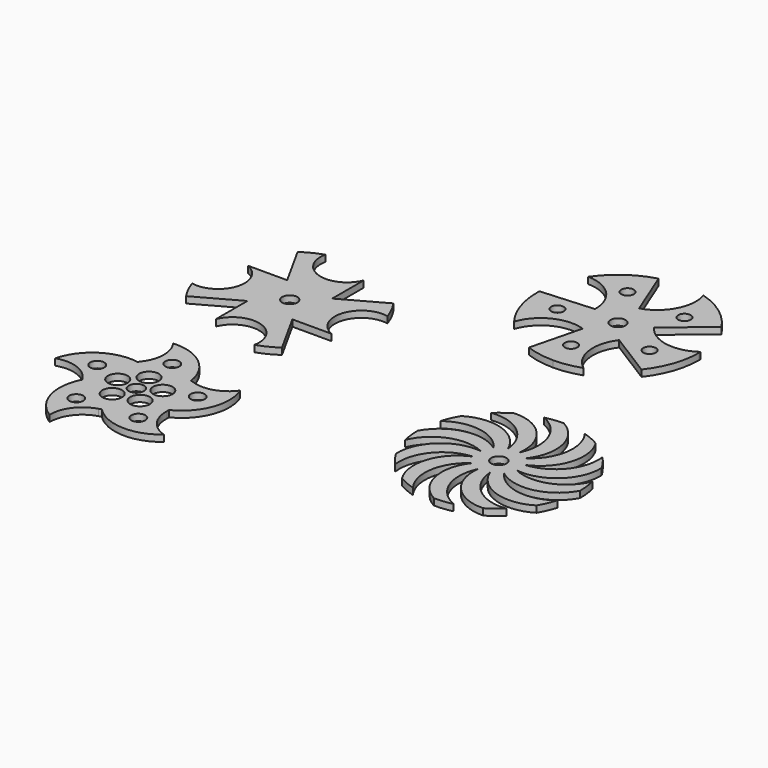
from build123d import *

# Parameters (mm, degrees)
F0_R     = 3.225868
F0_R_2   = 4.525865
F0_R_3   = 3.5
F1_DEPTH = 3
F2_R     = 3.5
F3_DEPTH = 3
F4_R     = 3.5
F5_DEPTH = 3
F6_R     = 2.906494
F6_R_2   = 3.5
F7_DEPTH = 3


with BuildPart() as f1:
    # F0 (on Top) → F1 (new body)
    with BuildSketch(Plane.XY):
        with BuildLine():
            ThreePointArc((-19.438324, -6.853237), (-21.163785, -22.798525), (-11.588137, -35.664619))
            ThreePointArc((-11.588137, -35.664619), (-8.591812, -26.48418), (-0.645364, -20.996705))
            ThreePointArc((-0.645364, -20.996705), (-0.062462, -20.81457), (0.511043, -20.604712))
            ThreePointArc((0.511043, -20.604712), (15.142716, -27.173088), (30.338137, -22.041947))
            ThreePointArc((30.338137, -22.041947), (22.532937, -16.35536), (19.769625, -7.102116))
            ThreePointArc((19.769625, -7.102116), (19.776531, -6.49146), (19.754166, -5.881175))
            ThreePointArc((19.754166, -5.881175), (30.522499, 6.004633), (30.338137, 22.041947))
            ThreePointArc((30.338137, 22.041947), (22.517932, 16.376012), (12.863664, 16.607356))
            ThreePointArc((12.863664, 16.607356), (12.28503, 16.802627), (11.697703, 16.969946))
            ThreePointArc((11.697703, 16.969946), (3.721225, 30.884155), (-11.588137, 35.664619))
            ThreePointArc((-11.588137, 35.664619), (-8.616089, 26.476292), (-11.819443, 17.366026))
            ThreePointArc((-11.819443, 17.366026), (-12.183965, 16.876055), (-12.524588, 16.369179))
            ThreePointArc((-12.524588, 16.369179), (-28.222655, 13.082824), (-37.5, 0))
            ThreePointArc((-37.5, 0), (-27.842968, -0.012763), (-20.168482, -5.874561))
            ThreePointArc((-20.168482, -5.874561), (-19.815134, -6.372651), (-19.438324, -6.853237))
        make_face()
        with Locations((-12.062608, -19.630695)):
            Circle(F0_R, mode=Mode.SUBTRACT)
        with Locations((-4.15265, -8.748238)):
            Circle(F0_R_2, mode=Mode.SUBTRACT)
        with Locations((14.942349, -17.53844)):
            Circle(F0_R, mode=Mode.SUBTRACT)
        with Locations((7.036829, -6.652759)):
            Circle(F0_R_2, mode=Mode.SUBTRACT)
        with Locations((-22.397451, 5.406003)):
            Circle(F0_R, mode=Mode.SUBTRACT)
        with Locations((-9.603308, 1.246051)):
            Circle(F0_R_2, mode=Mode.SUBTRACT)
        with Locations((-1.782521, 9.51834)):
            Circle(F0_R_2, mode=Mode.SUBTRACT)
        with Locations((-1.779778, 22.971789)):
            Circle(F0_R, mode=Mode.SUBTRACT)
        Circle(F0_R_3, mode=Mode.SUBTRACT)
        with Locations((8.50165, 4.636607)):
            Circle(F0_R_2, mode=Mode.SUBTRACT)
        with Locations((21.297488, 8.791343)):
            Circle(F0_R, mode=Mode.SUBTRACT)
    extrude(amount=F1_DEPTH)


with BuildPart() as f3:
    # F2 (on Top) → F3 (new body)
    with BuildSketch(Plane.XY):
        with BuildLine():
            ThreePointArc((35.522153, 100.598265), (33.554927, 105.323169), (30.962662, 109.736201))
            Line((30.962662, 109.736201), (11.360966, 98.87616))
            Line((11.360966, 98.87616), (11.360966, 117.03367))
            ThreePointArc((11.360966, 117.03367), (-3.549716, 109.914539), (-12.017762, 124.102656))
            ThreePointArc((-12.017762, 124.102656), (-16.742666, 122.13543), (-21.155699, 119.543164))
            Line((-21.155699, 119.543164), (-10.295657, 99.941468))
            Line((-10.295657, 99.941468), (-28.453168, 99.941468))
            ThreePointArc((-28.453168, 99.941468), (-21.334036, 85.030786), (-35.522153, 76.56274))
            ThreePointArc((-35.522153, 76.56274), (-33.554927, 71.837836), (-30.962662, 67.424804))
            Line((-30.962662, 67.424804), (-11.360966, 78.284845))
            Line((-11.360966, 78.284845), (-11.360966, 60.127335))
            ThreePointArc((-11.360966, 60.127335), (3.549716, 67.246466), (12.017762, 53.058349))
            ThreePointArc((12.017762, 53.058349), (16.742666, 55.025575), (21.155699, 57.617841))
            Line((21.155699, 57.617841), (10.295657, 77.219537))
            Line((10.295657, 77.219537), (28.453168, 77.219537))
            ThreePointArc((28.453168, 77.219537), (21.334036, 92.130219), (35.522153, 100.598265))
        make_face()
        with Locations((0, 88.580502)):
            Circle(F2_R, mode=Mode.SUBTRACT)
    extrude(amount=F3_DEPTH)


with BuildPart() as f5:
    # F4 (on Top) → F5 (new body)
    with BuildSketch(Plane.XY):
        with BuildLine():
            ThreePointArc((130.977916, 29.964317), (127.290884, 13.494142), (137.428389, 0))
            ThreePointArc((137.428389, 0), (141.632456, 0.236401), (145.783519, 0.942623))
            ThreePointArc((145.783519, 0.942623), (134.977833, 12.17518), (135.609957, 27.748671))
            ThreePointArc((135.609957, 27.748671), (140.651981, 11.641565), (156.178389, 5.024047))
            ThreePointArc((156.178389, 5.024047), (159.701018, 7.33081), (162.942832, 10.017948))
            ThreePointArc((162.942832, 10.017948), (147.968555, 14.342785), (140.729245, 28.145885))
            ThreePointArc((140.729245, 28.145885), (153.149319, 16.717734), (169.904342, 18.75))
            ThreePointArc((169.904342, 18.75), (171.801646, 22.509029), (173.265571, 26.457066))
            ThreePointArc((173.265571, 26.457066), (158.135048, 22.715346), (144.964072, 31.049527))
            ThreePointArc((144.964072, 31.049527), (161.434247, 27.362495), (174.928389, 37.5))
            ThreePointArc((174.928389, 37.5), (174.691988, 41.704067), (173.985766, 45.855129))
            ThreePointArc((173.985766, 45.855129), (162.753209, 35.049444), (147.179718, 35.681568))
            ThreePointArc((147.179718, 35.681568), (163.286824, 40.723592), (169.904342, 56.25))
            ThreePointArc((169.904342, 56.25), (167.597579, 59.772629), (164.910442, 63.014443))
            ThreePointArc((164.910442, 63.014443), (160.585604, 48.040166), (146.782504, 40.800856))
            ThreePointArc((146.782504, 40.800856), (158.210655, 53.22093), (156.178389, 69.975953))
            ThreePointArc((156.178389, 69.975953), (152.41936, 71.873257), (148.471323, 73.337182))
            ThreePointArc((148.471323, 73.337182), (152.213043, 58.206659), (143.878862, 45.035683))
            ThreePointArc((143.878862, 45.035683), (147.565894, 61.505858), (137.428389, 75))
            ThreePointArc((137.428389, 75), (133.224322, 74.763599), (129.07326, 74.057377))
            ThreePointArc((129.07326, 74.057377), (139.878945, 62.82482), (139.246821, 47.251329))
            ThreePointArc((139.246821, 47.251329), (134.204797, 63.358435), (118.678389, 69.975953))
            ThreePointArc((118.678389, 69.975953), (115.155761, 67.66919), (111.913946, 64.982052))
            ThreePointArc((111.913946, 64.982052), (126.888223, 60.657215), (134.127533, 46.854115))
            ThreePointArc((134.127533, 46.854115), (121.707459, 58.282266), (104.952437, 56.25))
            ThreePointArc((104.952437, 56.25), (103.055132, 52.490971), (101.591207, 48.542934))
            ThreePointArc((101.591207, 48.542934), (116.72173, 52.284654), (129.892707, 43.950473))
            ThreePointArc((129.892707, 43.950473), (113.422531, 47.637505), (99.928389, 37.5))
            ThreePointArc((99.928389, 37.5), (100.16479, 33.295933), (100.871012, 29.144871))
            ThreePointArc((100.871012, 29.144871), (112.103569, 39.950556), (127.67706, 39.318432))
            ThreePointArc((127.67706, 39.318432), (111.569954, 34.276408), (104.952437, 18.75))
            ThreePointArc((104.952437, 18.75), (107.259199, 15.227371), (109.946337, 11.985557))
            ThreePointArc((109.946337, 11.985557), (114.271174, 26.959834), (128.074274, 34.199144))
            ThreePointArc((128.074274, 34.199144), (116.646123, 21.77907), (118.678389, 5.024047))
            ThreePointArc((118.678389, 5.024047), (122.437419, 3.126743), (126.385455, 1.662818))
            ThreePointArc((126.385455, 1.662818), (122.643735, 16.793341), (130.977916, 29.964317))
        make_face()
        with Locations((137.428389, 37.5)):
            Circle(F4_R, mode=Mode.SUBTRACT)
    extrude(amount=F5_DEPTH)


with BuildPart() as f7:
    # F6 (on Top) → F7 (new body)
    with BuildSketch(Plane.XY):
        with BuildLine():
            ThreePointArc((90.644269, 113.338869), (97.049591, 111.594436), (103.662148, 111.00682))
            ThreePointArc((103.662148, 111.00682), (109.951295, 111.53796), (116.062287, 113.116333))
            ThreePointArc((116.062287, 113.116333), (109.049742, 124.912876), (112.464877, 138.204641))
            Line((112.464877, 138.204641), (133.086112, 125.258587))
            ThreePointArc((133.086112, 125.258587), (139.085648, 136.201306), (141.162148, 148.50682))
            ThreePointArc((141.162148, 148.50682), (141.1597, 148.935334), (141.152355, 149.363791))
            ThreePointArc((141.152355, 149.363791), (127.766181, 146.339797), (116.180295, 153.695165))
            Line((116.180295, 153.695165), (134.865037, 169.306573))
            ThreePointArc((134.865037, 169.306573), (125.968851, 178.650825), (114.432231, 184.426944))
            ThreePointArc((114.432231, 184.426944), (113.171665, 170.761471), (102.596059, 162.015572))
            Line((102.596059, 162.015572), (93.52263, 184.610008))
            ThreePointArc((93.52263, 184.610008), (81.886647, 179.036765), (72.828219, 169.849707))
            ThreePointArc((72.828219, 169.849707), (85.43532, 164.427974), (90.485122, 151.667344))
            Line((90.485122, 151.667344), (66.192693, 150.020064))
            ThreePointArc((66.192693, 150.020064), (66.169785, 149.263596), (66.162148, 148.50682))
            ThreePointArc((66.162148, 148.50682), (68.132275, 136.511899), (73.835649, 125.777325))
            ThreePointArc((73.835649, 125.777325), (82.887831, 136.091984), (96.584387, 136.951379))
            Line((96.584387, 136.951379), (90.644269, 113.338869))
        make_face()
        with Locations((101.350142, 124.280039)):
            Circle(F6_R, mode=Mode.SUBTRACT)
        with Locations((79.906661, 143.219182)):
            Circle(F6_R, mode=Mode.SUBTRACT)
        with Locations((125.988737, 138.821484)):
            Circle(F6_R, mode=Mode.SUBTRACT)
        with Locations((103.662148, 148.50682)):
            Circle(F6_R_2, mode=Mode.SUBTRACT)
        with Locations((91.292456, 169.465661)):
            Circle(F6_R, mode=Mode.SUBTRACT)
        with Locations((119.772745, 166.747735)):
            Circle(F6_R, mode=Mode.SUBTRACT)
    extrude(amount=F7_DEPTH)


solid = Compound([f1.part, f3.part, f5.part, f7.part])
